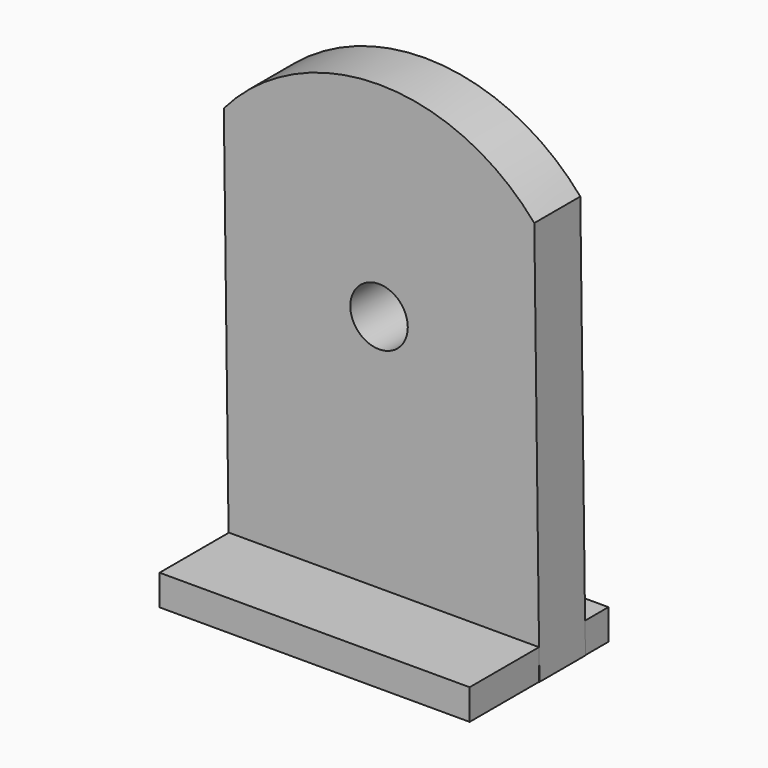
from build123d import *

# Parameters (mm, degrees)
F0_R     = 6.35
F1_DEPTH = 12.7
F2_W     = 68.494036
F2_H     = 6.746277
F3_DEPTH = 19.16025


with BuildPart() as f1:
    # F0 (on Front) → F1 (new body)
    with BuildSketch(Plane.XZ):
        with BuildLine():
            Line((-49.468103, 29.507252), (-48.335391, -59.385531))
            Line((-48.335391, -59.385531), (20.244609, -59.385531))
            Line((20.244609, -59.385531), (19.112058, 29.494613))
            ThreePointArc((19.112058, 29.494613), (-15.175114, 45.284769), (-49.468103, 29.507252))
        make_face()
        with Locations((-15.183433, 0.145581)):
            Circle(F0_R, mode=Mode.SUBTRACT)
    extrude(amount=F1_DEPTH)

    # F2 (on face) → F3 (join, symmetric)
    with BuildSketch(Plane.XZ.offset(12.7)):
        with Locations((-14.088373, -56.012393)):
            Rectangle(F2_W, F2_H)
    extrude(amount=F3_DEPTH, both=True)


solid = f1.part
